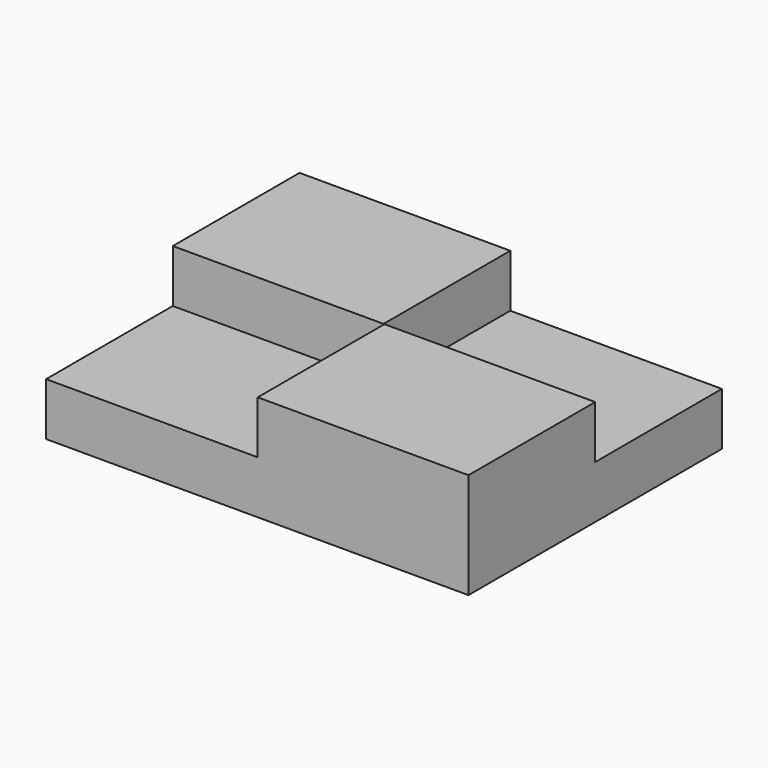
from build123d import *

# Parameters (mm, degrees)
F0_W     = 12.6746
F0_H     = 9.525
F0_W_2   = 0.0508
F1_DEPTH = 3.175
F2_DEPTH = 6.35


with BuildPart() as f1:
    # F0 (on Top) → F1 (new body)
    with BuildSketch(Plane.XY):
        with Locations((-6.3627, 4.7625)):
            Rectangle(F0_W, F0_H)
        with Locations((6.3627, 4.7625)):
            Rectangle(F0_W, F0_H)
        with Locations((6.3627, -4.7625)):
            Rectangle(F0_W, F0_H)
        with Locations((-6.3627, -4.7625)):
            Rectangle(F0_W, F0_H)
        with Locations((0, 4.7625)):
            Rectangle(F0_W_2, F0_H)
        with Locations((0, -4.7625)):
            Rectangle(F0_W_2, F0_H)
    extrude(amount=F1_DEPTH)

    # F0 (on Top) → F2 (join)
    with BuildSketch(Plane.XY):
        with Locations((6.3627, -4.7625)):
            Rectangle(F0_W, F0_H)
        with Locations((-6.3627, 4.7625)):
            Rectangle(F0_W, F0_H)
    extrude(amount=F2_DEPTH)


solid = f1.part
